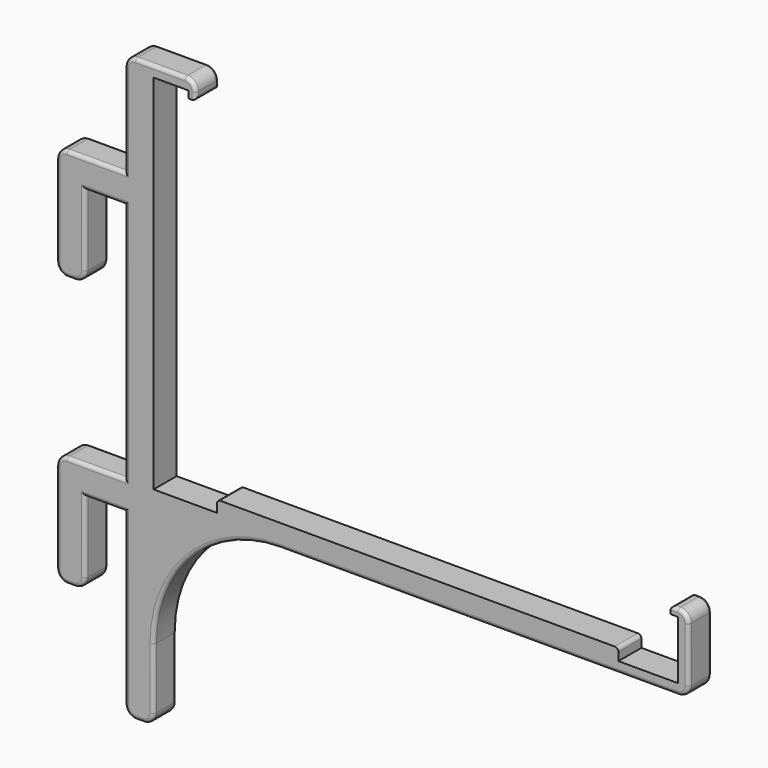
from build123d import *

# Parameters (mm, degrees)
PAD_DEPTH   = 8
FILLET_R    = 3
FILLET001_R = 1


with BuildPart() as part:
    # Sketch → Pad (new body)
    with BuildSketch(Plane.XZ):
        with BuildLine():
            Line((-11, 0), (-11, -23))
            Line((-11, -23), (-19, -23))
            Line((-19, -23), (-19, 8))
            Line((-19, 8), (0, 8))
            Line((0, 8), (0, 75))
            Line((0, 75), (-11, 75))
            Line((-11, 75), (-11, 52))
            Line((-11, 52), (-19, 52))
            Line((-19, 52), (-19, 83))
            Line((-19, 83), (0, 83))
            Line((0, 83), (0, 111.7))
            Line((0, 111.7), (19.7, 111.7))
            Line((19.7, 111.7), (19.7, 106.7))
            Line((19.7, 106.7), (17.7, 106.7))
            Line((17.7, 106.7), (17.7, 108.7))
            Line((17.7, 108.7), (8, 108.7))
            Line((8, 108.7), (8, 8))
            Line((8, 8), (25.6, 8))
            Line((25.6, 8), (25.6, 11.25))
            Line((25.6, 11.25), (137.1, 11.25))
            Line((137.1, 11.25), (137.1, 8))
            Line((137.1, 8), (153.6, 8))
            Line((153.6, 8), (153.6, 24.2))
            Line((153.6, 24.2), (151.6, 24.2))
            Line((151.6, 24.2), (151.6, 26.2))
            Line((151.6, 26.2), (156.6, 26.2))
            Line((156.6, 26.2), (156.6, 5))
            Line((156.6, 5), (43, 5))
            ThreePointArc((43, 5), (18.251263, -5.251263), (8, -30))
            Line((8, -30), (8, -50))
            Line((8, -50), (0, -50))
            Line((0, -50), (0, 0))
            Line((0, 0), (-11, 0))
        make_face()
    extrude(amount=PAD_DEPTH)

    # Fillet
    fillet_edges = [part.edges().sort_by_distance(p)[0] for p in [
        (-19, -4, 52),
        (-19, -4, 83),
        (0, -4, 111.7),
        (19.7, -4, 111.7),
        (156.6, -4, 26.2),
        (0, -4, -50),
        (-19, -4, -23),
        (-19, -4, 8),
        (8, -4, -50),
        (-11, -4, -23),
        (-11, -4, 52),
        (156.6, -4, 5),
    ]]
    fillet(fillet_edges, radius=FILLET_R)

    # Fillet001
    fillet001_edges = [part.edges().sort_by_distance(p)[0] for p in [
        (18.251263, -8, -5.251263),
        (18.251263, 0, -5.251263),
        (137.1, -4, 11.25),
        (25.6, -4, 11.25),
        (151.6, -4, 26.2),
        (19.7, -4, 106.7),
        (-11.87868, 0, -22.12132),
        (-11.87868, -8, -22.12132),
        (-11.87868, 0, 52.87868),
        (-11.87868, -8, 52.87868),
        (-5.5, 0, 0),
        (-5.5, -8, 0),
        (-5.5, 0, 75),
        (-5.5, -8, 75),
        (0.87868, 0, 110.82132),
        (0, 0, 41.5),
        (0.87868, -8, 110.82132),
        (0, -8, 41.5),
    ]]
    fillet(fillet001_edges, radius=FILLET001_R)


solid = part.part
